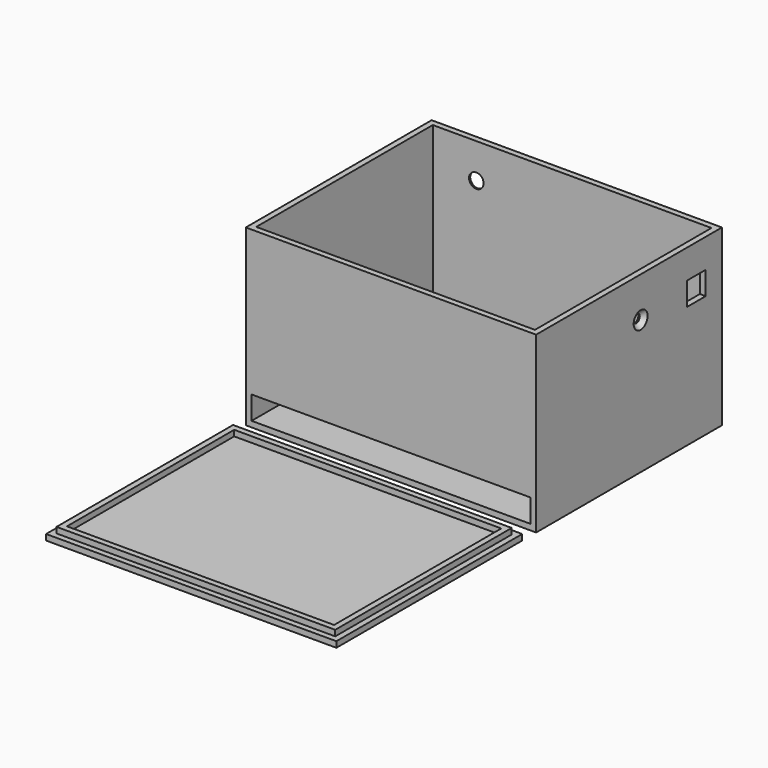
from build123d import *

# Parameters (mm, degrees)
SKETCH_W        = 100
SKETCH_H        = 80
PAD_DEPTH       = 60
SKETCH001_W     = 96
SKETCH001_H     = 76
POCKET_DEPTH    = 58
SKETCH004_R     = 1.5
SKETCH004_W     = 8
SKETCH004_H     = 8
POCKET002_DEPTH = 2
CHAMFER_SIZE    = 1.5
SKETCH006_W     = 96
SKETCH006_H     = 8
POCKET003_DEPTH = 2
SKETCH007_R     = 2.5
POCKET004_DEPTH = 2
CHAMFER001_SIZE = 1.5
SKETCH008_W     = 100
SKETCH008_H     = 80
PAD001_DEPTH    = 2
SKETCH009_W     = 96
SKETCH009_H     = 76
SKETCH009_W_2   = 92
SKETCH009_H_2   = 72
PAD002_DEPTH    = 2


with BuildPart() as box:
    # Sketch → Pad (new body)
    with BuildSketch(Plane.XY):
        with Locations((50, -40)):
            Rectangle(SKETCH_W, SKETCH_H)
    extrude(amount=PAD_DEPTH)

    # Sketch001 (on Face6 of Pad) → Pocket (cut)
    with BuildSketch(Plane.XY.offset(60)):
        with Locations((50, -40)):
            Rectangle(SKETCH001_W, SKETCH001_H)
    extrude(amount=-POCKET_DEPTH, mode=Mode.SUBTRACT)

    # Sketch004 → Pocket002 (cut)
    with BuildSketch(Plane(origin=(98, 0, 0), x_dir=(0, -1, 0), z_dir=(-1, 0, 0))):
        with Locations((35, 46.165421)):
            Circle(SKETCH004_R)
        with Locations((11, 46)):
            Rectangle(SKETCH004_W, SKETCH004_H)
    extrude(amount=-POCKET002_DEPTH, mode=Mode.SUBTRACT)

    # Chamfer
    chamfer_edges = [box.edges().sort_by_distance(p)[0] for p in [
        (100, -33.5, 46.165421),
    ]]
    chamfer(chamfer_edges, length=CHAMFER_SIZE)

    # Sketch006 (on Face14 of Chamfer) → Pocket003 (cut)
    with BuildSketch(Plane(origin=(0, -78, 0), x_dir=(-1, 0, 0), z_dir=(0, 1, 0))):
        with Locations((-50, 6)):
            Rectangle(SKETCH006_W, SKETCH006_H)
    extrude(amount=-POCKET003_DEPTH, mode=Mode.SUBTRACT)

    # Sketch007 (on Face15 of Pocket003) → Pocket004 (cut)
    with BuildSketch(Plane.XZ.offset(2)):
        with Locations((17, 48)):
            Circle(SKETCH007_R)
    extrude(amount=-POCKET004_DEPTH, mode=Mode.SUBTRACT)

    # Chamfer001
    chamfer001_edges = [box.edges().sort_by_distance(p)[0] for p in [
        (14.5, 0, 48),
    ]]
    chamfer(chamfer001_edges, length=CHAMFER001_SIZE)


with BuildPart() as box_1:
    # Body placement: moved
    add(box.part.moved(Location((0, 166, 0))))


with BuildPart() as body:
    # Sketch008 → Pad001 (new body)
    with BuildSketch(Plane.XY):
        with Locations((50, 40)):
            Rectangle(SKETCH008_W, SKETCH008_H)
    extrude(amount=PAD001_DEPTH)

    # Sketch009 (on Face6 of Pad001) → Pad002 (join)
    with BuildSketch(Plane.XY.offset(2)):
        with Locations((50, 40)):
            Rectangle(SKETCH009_W, SKETCH009_H)
        with Locations((50, 40)):
            Rectangle(SKETCH009_W_2, SKETCH009_H_2, mode=Mode.SUBTRACT)
    extrude(amount=PAD002_DEPTH)


solid = Compound([box_1.part, body.part])
